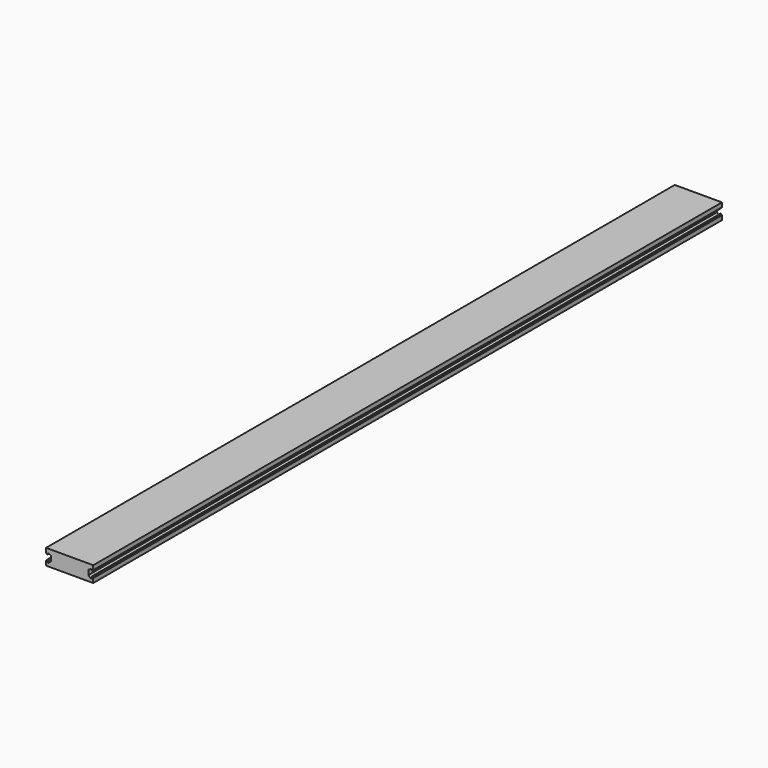
from build123d import *

# Parameters (mm, degrees)
F1_DEPTH = 1000


with BuildPart() as f1:
    # F0 (on Front) → F1 (new body)
    with BuildSketch(Plane.XZ):
        Polygon((-30, 5.5), (-30, 0), (0, 0), (0, 20), (-30, 20), (-30, 14.5), (-29, 13.1), (-28.2, 13.1), (-28.2, 14.5), (-26.4, 14.5), (-23.85, 13.1), (-23.85, 6.9), (-26.4, 4.3), (-28.2, 4.3), (-28.2, 6.9), (-29, 6.9), align=None)
        Polygon((0, 20), (0, 0), (30, 0), (30, 5.5), (29, 6.9), (28.2, 6.9), (28.2, 4.3), (26.4, 4.3), (23.85, 6.9), (23.85, 13.1), (26.4, 14.5), (28.2, 14.5), (28.2, 13.1), (29, 13.1), (30, 14.5), (30, 20), align=None)
    extrude(amount=F1_DEPTH)


solid = f1.part
